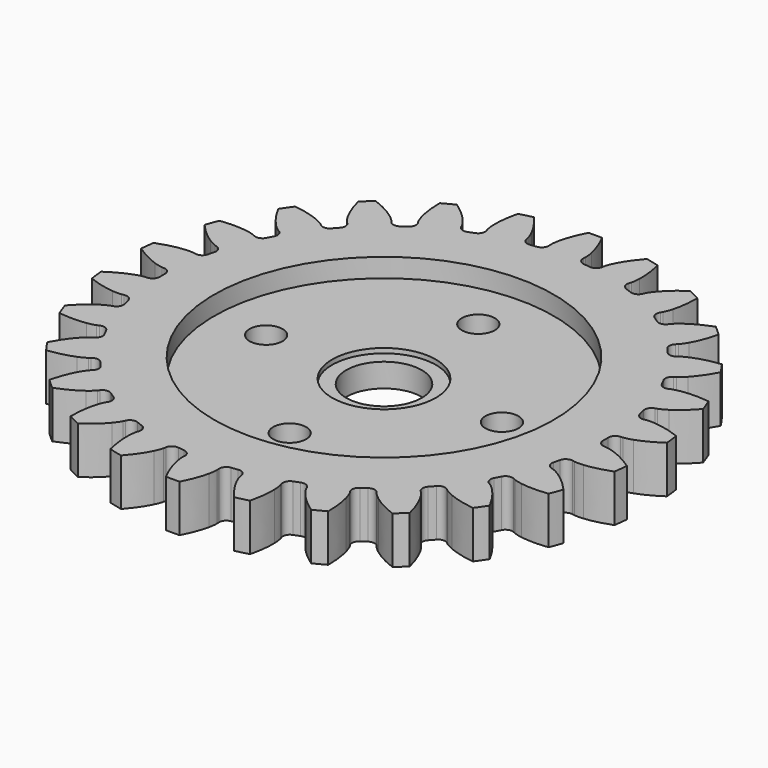
from build123d import *

# Parameters (mm, degrees)
PAD019_DEPTH            = 5
SKETCH036_R             = 18
POCKET010_DEPTH         = 2
SKETCH037_R             = 5.5
POCKET011_DEPTH         = 0.5
SKETCH038_R             = 4
SKETCH038_R_2           = 1.75
POCKET012_DEPTH         = 5
BODY010_PLACEMENT_ANGLE = 90


with BuildPart() as part:
    # InvoluteGear001 → Pad019 (new body)
    with BuildSketch(Plane.XY):
        with BuildLine():
            Line((24.169679, -1.823902), (24.402023, -1.839925))
            add(Edge.make_bspline(
                [(24.402023, -1.839925), (24.505998, -1.841884), (24.819273, -1.836079), (25.341009, -1.726455)],
                knots=[0, 0, 0, 0, 1, 1, 1, 1], degree=3))
            add(Edge.make_bspline(
                [(25.341009, -1.726455), (25.966142, -1.593485), (26.869244, -1.31269), (27.992723, -0.722987)],
                knots=[0, 0, 0, 0, 1, 1, 1, 1], degree=3))
            ThreePointArc((27.992723, -0.722987), (28.002059, 0), (27.992723, 0.722987))
            add(Edge.make_bspline(
                [(27.992723, 0.722987), (26.869244, 1.31269), (25.966142, 1.593485), (25.341009, 1.726455)],
                knots=[0, 0, 0, 0, 1, 1, 1, 1], degree=3))
            add(Edge.make_bspline(
                [(25.341009, 1.726455), (24.819273, 1.836079), (24.505998, 1.841884), (24.402023, 1.839925)],
                knots=[0, 0, 0, 0, 1, 1, 1, 1], degree=3))
            Line((24.402023, 1.839925), (24.169679, 1.823902))
            ThreePointArc((24.169679, 1.823902), (23.633311, 1.995437), (23.367509, 2.49189))
            ThreePointArc((23.367509, 2.49189), (23.328659, 2.832612), (23.28484, 3.172731))
            ThreePointArc((23.28484, 3.172731), (23.424109, 3.718368), (23.90384, 4.013281))
            Line((23.90384, 4.013281), (24.133268, 4.053326))
            add(Edge.make_bspline(
                [(24.133268, 4.053326), (24.23469, 4.076307), (24.537472, 4.156915), (25.017813, 4.388213)],
                knots=[0, 0, 0, 0, 1, 1, 1, 1], degree=3))
            add(Edge.make_bspline(
                [(25.017813, 4.388213), (25.592959, 4.666923), (26.40262, 5.155685), (27.352328, 5.997119)],
                knots=[0, 0, 0, 0, 1, 1, 1, 1], degree=3))
            ThreePointArc((27.352328, 5.997119), (27.18837, 6.701331), (27.006283, 7.401076))
            add(Edge.make_bspline(
                [(27.006283, 7.401076), (25.774325, 7.704777), (24.830267, 7.761286), (24.191477, 7.740788)],
                knots=[0, 0, 0, 0, 1, 1, 1, 1], degree=3))
            add(Edge.make_bspline(
                [(24.191477, 7.740788), (23.658667, 7.722367), (23.353106, 7.653031), (23.252622, 7.626247)],
                knots=[0, 0, 0, 0, 1, 1, 1, 1], degree=3))
            Line((23.252622, 7.626247), (23.030864, 7.555085))
            ThreePointArc((23.030864, 7.555085), (22.46903, 7.593275), (22.092143, 8.011691))
            ThreePointArc((22.092143, 8.011691), (21.972882, 8.333215), (21.848941, 8.652964))
            ThreePointArc((21.848941, 8.652964), (21.853583, 9.216075), (22.248797, 9.617225))
            Line((22.248797, 9.617225), (22.461974, 9.711013))
            add(Edge.make_bspline(
                [(22.461974, 9.711013), (22.55495, 9.757598), (22.829643, 9.908324), (23.240672, 10.247854)],
                knots=[0, 0, 0, 0, 1, 1, 1, 1], degree=3))
            add(Edge.make_bspline(
                [(23.240672, 10.247854), (23.732407, 10.656107), (24.401571, 11.324431), (25.122314, 12.368694)],
                knots=[0, 0, 0, 0, 1, 1, 1, 1], degree=3))
            ThreePointArc((25.122314, 12.368694), (24.794592, 13.013206), (24.450336, 13.64904))
            add(Edge.make_bspline(
                [(24.450336, 13.64904), (23.181496, 13.64909), (22.251348, 13.478029), (21.636025, 13.305254)],
                knots=[0, 0, 0, 0, 1, 1, 1, 1], degree=3))
            add(Edge.make_bspline(
                [(21.636025, 13.305254), (21.123106, 13.159858), (20.843017, 13.019412), (20.751862, 12.969358)],
                knots=[0, 0, 0, 0, 1, 1, 1, 1], degree=3))
            Line((20.751862, 12.969358), (20.553579, 12.847195))
            ThreePointArc((20.553579, 12.847195), (19.998931, 12.749819), (19.532863, 13.065882))
            ThreePointArc((19.532863, 13.065882), (19.340121, 13.349522), (19.143261, 13.630318))
            ThreePointArc((19.143261, 13.630318), (19.013007, 14.178177), (19.300735, 14.662252))
            Line((19.300735, 14.662252), (19.485273, 14.804331))
            add(Edge.make_bspline(
                [(19.485273, 14.804331), (19.564398, 14.871813), (19.795038, 15.083897), (20.112869, 15.511927)],
                knots=[0, 0, 0, 0, 1, 1, 1, 1], degree=3))
            add(Edge.make_bspline(
                [(20.112869, 15.511927), (20.492613, 16.025997), (20.982392, 16.835042), (21.432283, 18.021445)],
                knots=[0, 0, 0, 0, 1, 1, 1, 1], degree=3))
            ThreePointArc((21.432283, 18.021445), (20.959842, 18.5688), (20.473425, 19.103773))
            add(Edge.make_bspline(
                [(20.473425, 19.103773), (19.241443, 18.800167), (18.379261, 18.411478), (17.823166, 18.096467)],
                knots=[0, 0, 0, 0, 1, 1, 1, 1], degree=3))
            add(Edge.make_bspline(
                [(17.823166, 18.096467), (17.359947, 17.832547), (17.121608, 17.629152), (17.04508, 17.558738)],
                knots=[0, 0, 0, 0, 1, 1, 1, 1], degree=3))
            Line((17.04508, 17.558738), (16.881794, 17.392672))
            ThreePointArc((16.881794, 17.392672), (16.366567, 17.16539), (15.838403, 17.360731))
            ThreePointArc((15.838403, 17.360731), (15.583382, 17.590003), (15.325044, 17.815528))
            ThreePointArc((15.325044, 17.815528), (15.067463, 18.316296), (15.230984, 18.855162))
            Line((15.230984, 18.855162), (15.376158, 19.037275))
            add(Edge.make_bspline(
                [(15.376158, 19.037275), (15.436834, 19.121732), (15.610017, 19.382849), (15.816178, 19.874503)],
                knots=[0, 0, 0, 0, 1, 1, 1, 1], degree=3))
            add(Edge.make_bspline(
                [(15.816178, 19.874503), (16.061862, 20.464514), (16.343793, 21.367261), (16.496686, 22.626856)],
                knots=[0, 0, 0, 0, 1, 1, 1, 1], degree=3))
            ThreePointArc((16.496686, 22.626856), (15.906982, 23.045243), (15.306672, 23.448263))
            add(Edge.make_bspline(
                [(15.306672, 23.448263), (14.183147, 22.858647), (13.439038, 22.274919), (12.974489, 21.835979)],
                knots=[0, 0, 0, 0, 1, 1, 1, 1], degree=3))
            add(Edge.make_bspline(
                [(12.974489, 21.835979), (12.587891, 21.468873), (12.405153, 21.21435), (12.3477, 21.127668)],
                knots=[0, 0, 0, 0, 1, 1, 1, 1], degree=3))
            Line((12.3477, 21.127668), (12.228901, 20.92735))
            ThreePointArc((12.228901, 20.92735), (11.783038, 20.583371), (11.223473, 20.646638))
            ThreePointArc((11.223473, 20.646638), (10.920995, 20.808217), (10.616191, 20.965364))
            ThreePointArc((10.616191, 20.965364), (10.246254, 21.389937), (10.276064, 21.952278))
            Line((10.276064, 21.952278), (10.373437, 22.163841))
            add(Edge.make_bspline(
                [(10.373437, 22.163841), (10.412138, 22.260365), (10.517799, 22.555341), (10.600309, 23.082045)],
                knots=[0, 0, 0, 0, 1, 1, 1, 1], degree=3))
            add(Edge.make_bspline(
                [(10.600309, 23.082045), (10.697655, 23.713707), (10.755352, 24.657693), (10.602361, 25.917276)],
                knots=[0, 0, 0, 0, 1, 1, 1, 1], degree=3))
            ThreePointArc((10.602361, 25.917276), (9.929667, 26.18238), (9.250352, 26.430025))
            add(Edge.make_bspline(
                [(9.250352, 26.430025), (8.300578, 25.588666), (7.717787, 24.843822), (7.371782, 24.306464)],
                knots=[0, 0, 0, 0, 1, 1, 1, 1], degree=3))
            add(Edge.make_bspline(
                [(7.371782, 24.306464), (7.084272, 23.857506), (6.967755, 23.566647), (6.932717, 23.468734)],
                knots=[0, 0, 0, 0, 1, 1, 1, 1], degree=3))
            Line((6.932717, 23.468734), (6.865309, 23.245807))
            ThreePointArc((6.865309, 23.245807), (6.514721, 22.805121), (5.956275, 22.732637))
            ThreePointArc((5.956275, 22.732637), (5.623918, 22.817133), (5.290363, 22.89677))
            ThreePointArc((5.290363, 22.89677), (4.829569, 23.220474), (4.723936, 23.773608))
            Line((4.723936, 23.773608), (4.767849, 24.002326))
            add(Edge.make_bspline(
                [(4.767849, 24.002326), (4.782326, 24.105307), (4.814325, 24.416998), (4.768388, 24.948143)],
                knots=[0, 0, 0, 0, 1, 1, 1, 1], degree=3))
            add(Edge.make_bspline(
                [(4.768388, 24.948143), (4.711739, 25.584747), (4.541849, 26.515109), (4.091866, 27.701478)],
                knots=[0, 0, 0, 0, 1, 1, 1, 1], degree=3))
            ThreePointArc((4.091866, 27.701478), (3.375275, 27.797892), (2.656434, 27.875771))
            add(Edge.make_bspline(
                [(2.656434, 27.875771), (1.93561, 26.831564), (1.548006, 25.968893), (1.340654, 25.364345)],
                knots=[0, 0, 0, 0, 1, 1, 1, 1], degree=3))
            add(Edge.make_bspline(
                [(1.340654, 25.364345), (1.168941, 24.859627), (1.125417, 24.549336), (1.114829, 24.445883)],
                knots=[0, 0, 0, 0, 1, 1, 1, 1], degree=3))
            Line((1.114829, 24.445883), (1.10273, 24.213302))
            ThreePointArc((1.10273, 24.213302), (0.867792, 23.70152), (0.342921, 23.497498))
            ThreePointArc((0.342921, 23.497498), (0, 23.5), (-0.342921, 23.497498))
            ThreePointArc((-0.342921, 23.497498), (-0.867792, 23.70152), (-1.10273, 24.213302))
            Line((-1.10273, 24.213302), (-1.114829, 24.445883))
            add(Edge.make_bspline(
                [(-1.114829, 24.445883), (-1.125417, 24.549336), (-1.168941, 24.859627), (-1.340654, 25.364345)],
                knots=[0, 0, 0, 0, 1, 1, 1, 1], degree=3))
            add(Edge.make_bspline(
                [(-1.340654, 25.364345), (-1.548006, 25.968893), (-1.93561, 26.831564), (-2.656434, 27.875771)],
                knots=[0, 0, 0, 0, 1, 1, 1, 1], degree=3))
            ThreePointArc((-2.656434, 27.875771), (-3.375275, 27.797892), (-4.091866, 27.701478))
            add(Edge.make_bspline(
                [(-4.091866, 27.701478), (-4.541849, 26.515109), (-4.711739, 25.584747), (-4.768388, 24.948143)],
                knots=[0, 0, 0, 0, 1, 1, 1, 1], degree=3))
            add(Edge.make_bspline(
                [(-4.768388, 24.948143), (-4.814325, 24.416998), (-4.782326, 24.105307), (-4.767849, 24.002326)],
                knots=[0, 0, 0, 0, 1, 1, 1, 1], degree=3))
            Line((-4.767849, 24.002326), (-4.723936, 23.773608))
            ThreePointArc((-4.723936, 23.773608), (-4.829569, 23.220474), (-5.290363, 22.89677))
            ThreePointArc((-5.290363, 22.89677), (-5.623918, 22.817133), (-5.956275, 22.732637))
            ThreePointArc((-5.956275, 22.732637), (-6.514721, 22.805121), (-6.865309, 23.245807))
            Line((-6.865309, 23.245807), (-6.932717, 23.468734))
            add(Edge.make_bspline(
                [(-6.932717, 23.468734), (-6.967755, 23.566647), (-7.084272, 23.857506), (-7.371782, 24.306464)],
                knots=[0, 0, 0, 0, 1, 1, 1, 1], degree=3))
            add(Edge.make_bspline(
                [(-7.371782, 24.306464), (-7.717787, 24.843822), (-8.300578, 25.588666), (-9.250352, 26.430025)],
                knots=[0, 0, 0, 0, 1, 1, 1, 1], degree=3))
            ThreePointArc((-9.250352, 26.430025), (-9.929667, 26.18238), (-10.602361, 25.917276))
            add(Edge.make_bspline(
                [(-10.602361, 25.917276), (-10.755352, 24.657693), (-10.697655, 23.713707), (-10.600309, 23.082045)],
                knots=[0, 0, 0, 0, 1, 1, 1, 1], degree=3))
            add(Edge.make_bspline(
                [(-10.600309, 23.082045), (-10.517799, 22.555341), (-10.412138, 22.260365), (-10.373437, 22.163841)],
                knots=[0, 0, 0, 0, 1, 1, 1, 1], degree=3))
            Line((-10.373437, 22.163841), (-10.276064, 21.952278))
            ThreePointArc((-10.276064, 21.952278), (-10.246254, 21.389937), (-10.616191, 20.965364))
            ThreePointArc((-10.616191, 20.965364), (-10.920995, 20.808217), (-11.223473, 20.646638))
            ThreePointArc((-11.223473, 20.646638), (-11.783038, 20.583371), (-12.228901, 20.92735))
            Line((-12.228901, 20.92735), (-12.3477, 21.127668))
            add(Edge.make_bspline(
                [(-12.3477, 21.127668), (-12.405153, 21.21435), (-12.587891, 21.468873), (-12.974489, 21.835979)],
                knots=[0, 0, 0, 0, 1, 1, 1, 1], degree=3))
            add(Edge.make_bspline(
                [(-12.974489, 21.835979), (-13.439038, 22.274919), (-14.183147, 22.858647), (-15.306672, 23.448263)],
                knots=[0, 0, 0, 0, 1, 1, 1, 1], degree=3))
            ThreePointArc((-15.306672, 23.448263), (-15.906982, 23.045243), (-16.496686, 22.626856))
            add(Edge.make_bspline(
                [(-16.496686, 22.626856), (-16.343793, 21.367261), (-16.061862, 20.464514), (-15.816178, 19.874503)],
                knots=[0, 0, 0, 0, 1, 1, 1, 1], degree=3))
            add(Edge.make_bspline(
                [(-15.816178, 19.874503), (-15.610017, 19.382849), (-15.436834, 19.121732), (-15.376158, 19.037275)],
                knots=[0, 0, 0, 0, 1, 1, 1, 1], degree=3))
            Line((-15.376158, 19.037275), (-15.230984, 18.855162))
            ThreePointArc((-15.230984, 18.855162), (-15.067463, 18.316296), (-15.325044, 17.815528))
            ThreePointArc((-15.325044, 17.815528), (-15.583382, 17.590003), (-15.838403, 17.360731))
            ThreePointArc((-15.838403, 17.360731), (-16.366567, 17.16539), (-16.881794, 17.392672))
            Line((-16.881794, 17.392672), (-17.04508, 17.558738))
            add(Edge.make_bspline(
                [(-17.04508, 17.558738), (-17.121608, 17.629152), (-17.359947, 17.832547), (-17.823166, 18.096467)],
                knots=[0, 0, 0, 0, 1, 1, 1, 1], degree=3))
            add(Edge.make_bspline(
                [(-17.823166, 18.096467), (-18.379261, 18.411478), (-19.241443, 18.800167), (-20.473425, 19.103773)],
                knots=[0, 0, 0, 0, 1, 1, 1, 1], degree=3))
            ThreePointArc((-20.473425, 19.103773), (-20.959842, 18.5688), (-21.432283, 18.021445))
            add(Edge.make_bspline(
                [(-21.432283, 18.021445), (-20.982392, 16.835042), (-20.492613, 16.025997), (-20.112869, 15.511927)],
                knots=[0, 0, 0, 0, 1, 1, 1, 1], degree=3))
            add(Edge.make_bspline(
                [(-20.112869, 15.511927), (-19.795038, 15.083897), (-19.564398, 14.871813), (-19.485273, 14.804331)],
                knots=[0, 0, 0, 0, 1, 1, 1, 1], degree=3))
            Line((-19.485273, 14.804331), (-19.300735, 14.662252))
            ThreePointArc((-19.300735, 14.662252), (-19.013007, 14.178177), (-19.143261, 13.630318))
            ThreePointArc((-19.143261, 13.630318), (-19.340121, 13.349522), (-19.532863, 13.065882))
            ThreePointArc((-19.532863, 13.065882), (-19.998931, 12.749819), (-20.553579, 12.847195))
            Line((-20.553579, 12.847195), (-20.751862, 12.969358))
            add(Edge.make_bspline(
                [(-20.751862, 12.969358), (-20.843017, 13.019412), (-21.123106, 13.159858), (-21.636025, 13.305254)],
                knots=[0, 0, 0, 0, 1, 1, 1, 1], degree=3))
            add(Edge.make_bspline(
                [(-21.636025, 13.305254), (-22.251348, 13.478029), (-23.181496, 13.64909), (-24.450336, 13.64904)],
                knots=[0, 0, 0, 0, 1, 1, 1, 1], degree=3))
            ThreePointArc((-24.450336, 13.64904), (-24.794592, 13.013206), (-25.122314, 12.368694))
            add(Edge.make_bspline(
                [(-25.122314, 12.368694), (-24.401571, 11.324431), (-23.732407, 10.656107), (-23.240672, 10.247854)],
                knots=[0, 0, 0, 0, 1, 1, 1, 1], degree=3))
            add(Edge.make_bspline(
                [(-23.240672, 10.247854), (-22.829643, 9.908324), (-22.55495, 9.757598), (-22.461974, 9.711013)],
                knots=[0, 0, 0, 0, 1, 1, 1, 1], degree=3))
            Line((-22.461974, 9.711013), (-22.248797, 9.617225))
            ThreePointArc((-22.248797, 9.617225), (-21.853583, 9.216075), (-21.848941, 8.652964))
            ThreePointArc((-21.848941, 8.652964), (-21.972882, 8.333215), (-22.092143, 8.011691))
            ThreePointArc((-22.092143, 8.011691), (-22.46903, 7.593275), (-23.030864, 7.555085))
            Line((-23.030864, 7.555085), (-23.252622, 7.626247))
            add(Edge.make_bspline(
                [(-23.252622, 7.626247), (-23.353106, 7.653031), (-23.658667, 7.722367), (-24.191477, 7.740788)],
                knots=[0, 0, 0, 0, 1, 1, 1, 1], degree=3))
            add(Edge.make_bspline(
                [(-24.191477, 7.740788), (-24.830267, 7.761286), (-25.774325, 7.704777), (-27.006283, 7.401076)],
                knots=[0, 0, 0, 0, 1, 1, 1, 1], degree=3))
            ThreePointArc((-27.006283, 7.401076), (-27.18837, 6.701331), (-27.352328, 5.997119))
            add(Edge.make_bspline(
                [(-27.352328, 5.997119), (-26.40262, 5.155685), (-25.592959, 4.666923), (-25.017813, 4.388213)],
                knots=[0, 0, 0, 0, 1, 1, 1, 1], degree=3))
            add(Edge.make_bspline(
                [(-25.017813, 4.388213), (-24.537472, 4.156915), (-24.23469, 4.076307), (-24.133268, 4.053326)],
                knots=[0, 0, 0, 0, 1, 1, 1, 1], degree=3))
            Line((-24.133268, 4.053326), (-23.90384, 4.013281))
            ThreePointArc((-23.90384, 4.013281), (-23.424109, 3.718368), (-23.28484, 3.172731))
            ThreePointArc((-23.28484, 3.172731), (-23.328659, 2.832612), (-23.367509, 2.49189))
            ThreePointArc((-23.367509, 2.49189), (-23.633311, 1.995437), (-24.169679, 1.823902))
            Line((-24.169679, 1.823902), (-24.402023, 1.839925))
            add(Edge.make_bspline(
                [(-24.402023, 1.839925), (-24.505998, 1.841884), (-24.819273, 1.836079), (-25.341009, 1.726455)],
                knots=[0, 0, 0, 0, 1, 1, 1, 1], degree=3))
            add(Edge.make_bspline(
                [(-25.341009, 1.726455), (-25.966142, 1.593485), (-26.869244, 1.31269), (-27.992723, 0.722987)],
                knots=[0, 0, 0, 0, 1, 1, 1, 1], degree=3))
            ThreePointArc((-27.992723, 0.722987), (-28.002059, 0), (-27.992723, -0.722987))
            add(Edge.make_bspline(
                [(-27.992723, -0.722987), (-26.869244, -1.31269), (-25.966142, -1.593485), (-25.341009, -1.726455)],
                knots=[0, 0, 0, 0, 1, 1, 1, 1], degree=3))
            add(Edge.make_bspline(
                [(-25.341009, -1.726455), (-24.819273, -1.836079), (-24.505998, -1.841884), (-24.402023, -1.839925)],
                knots=[0, 0, 0, 0, 1, 1, 1, 1], degree=3))
            Line((-24.402023, -1.839925), (-24.169679, -1.823902))
            ThreePointArc((-24.169679, -1.823902), (-23.633311, -1.995437), (-23.367509, -2.49189))
            ThreePointArc((-23.367509, -2.49189), (-23.328659, -2.832612), (-23.28484, -3.172731))
            ThreePointArc((-23.28484, -3.172731), (-23.424109, -3.718368), (-23.90384, -4.013281))
            Line((-23.90384, -4.013281), (-24.133268, -4.053326))
            add(Edge.make_bspline(
                [(-24.133268, -4.053326), (-24.23469, -4.076307), (-24.537472, -4.156915), (-25.017813, -4.388213)],
                knots=[0, 0, 0, 0, 1, 1, 1, 1], degree=3))
            add(Edge.make_bspline(
                [(-25.017813, -4.388213), (-25.592959, -4.666923), (-26.40262, -5.155685), (-27.352328, -5.997119)],
                knots=[0, 0, 0, 0, 1, 1, 1, 1], degree=3))
            ThreePointArc((-27.352328, -5.997119), (-27.18837, -6.701331), (-27.006283, -7.401076))
            add(Edge.make_bspline(
                [(-27.006283, -7.401076), (-25.774325, -7.704777), (-24.830267, -7.761286), (-24.191477, -7.740788)],
                knots=[0, 0, 0, 0, 1, 1, 1, 1], degree=3))
            add(Edge.make_bspline(
                [(-24.191477, -7.740788), (-23.658667, -7.722367), (-23.353106, -7.653031), (-23.252622, -7.626247)],
                knots=[0, 0, 0, 0, 1, 1, 1, 1], degree=3))
            Line((-23.252622, -7.626247), (-23.030864, -7.555085))
            ThreePointArc((-23.030864, -7.555085), (-22.46903, -7.593275), (-22.092143, -8.011691))
            ThreePointArc((-22.092143, -8.011691), (-21.972882, -8.333215), (-21.848941, -8.652964))
            ThreePointArc((-21.848941, -8.652964), (-21.853583, -9.216075), (-22.248797, -9.617225))
            Line((-22.248797, -9.617225), (-22.461974, -9.711013))
            add(Edge.make_bspline(
                [(-22.461974, -9.711013), (-22.55495, -9.757598), (-22.829643, -9.908324), (-23.240672, -10.247854)],
                knots=[0, 0, 0, 0, 1, 1, 1, 1], degree=3))
            add(Edge.make_bspline(
                [(-23.240672, -10.247854), (-23.732407, -10.656107), (-24.401571, -11.324431), (-25.122314, -12.368694)],
                knots=[0, 0, 0, 0, 1, 1, 1, 1], degree=3))
            ThreePointArc((-25.122314, -12.368694), (-24.794592, -13.013206), (-24.450336, -13.64904))
            add(Edge.make_bspline(
                [(-24.450336, -13.64904), (-23.181496, -13.64909), (-22.251348, -13.478029), (-21.636025, -13.305254)],
                knots=[0, 0, 0, 0, 1, 1, 1, 1], degree=3))
            add(Edge.make_bspline(
                [(-21.636025, -13.305254), (-21.123106, -13.159858), (-20.843017, -13.019412), (-20.751862, -12.969358)],
                knots=[0, 0, 0, 0, 1, 1, 1, 1], degree=3))
            Line((-20.751862, -12.969358), (-20.553579, -12.847195))
            ThreePointArc((-20.553579, -12.847195), (-19.998931, -12.749819), (-19.532863, -13.065882))
            ThreePointArc((-19.532863, -13.065882), (-19.340121, -13.349522), (-19.143261, -13.630318))
            ThreePointArc((-19.143261, -13.630318), (-19.013007, -14.178177), (-19.300735, -14.662252))
            Line((-19.300735, -14.662252), (-19.485273, -14.804331))
            add(Edge.make_bspline(
                [(-19.485273, -14.804331), (-19.564398, -14.871813), (-19.795038, -15.083897), (-20.112869, -15.511927)],
                knots=[0, 0, 0, 0, 1, 1, 1, 1], degree=3))
            add(Edge.make_bspline(
                [(-20.112869, -15.511927), (-20.492613, -16.025997), (-20.982392, -16.835042), (-21.432283, -18.021445)],
                knots=[0, 0, 0, 0, 1, 1, 1, 1], degree=3))
            ThreePointArc((-21.432283, -18.021445), (-20.959842, -18.5688), (-20.473425, -19.103773))
            add(Edge.make_bspline(
                [(-20.473425, -19.103773), (-19.241443, -18.800167), (-18.379261, -18.411478), (-17.823166, -18.096467)],
                knots=[0, 0, 0, 0, 1, 1, 1, 1], degree=3))
            add(Edge.make_bspline(
                [(-17.823166, -18.096467), (-17.359947, -17.832547), (-17.121608, -17.629152), (-17.04508, -17.558738)],
                knots=[0, 0, 0, 0, 1, 1, 1, 1], degree=3))
            Line((-17.04508, -17.558738), (-16.881794, -17.392672))
            ThreePointArc((-16.881794, -17.392672), (-16.366567, -17.16539), (-15.838403, -17.360731))
            ThreePointArc((-15.838403, -17.360731), (-15.583382, -17.590003), (-15.325044, -17.815528))
            ThreePointArc((-15.325044, -17.815528), (-15.067463, -18.316296), (-15.230984, -18.855162))
            Line((-15.230984, -18.855162), (-15.376158, -19.037275))
            add(Edge.make_bspline(
                [(-15.376158, -19.037275), (-15.436834, -19.121732), (-15.610017, -19.382849), (-15.816178, -19.874503)],
                knots=[0, 0, 0, 0, 1, 1, 1, 1], degree=3))
            add(Edge.make_bspline(
                [(-15.816178, -19.874503), (-16.061862, -20.464514), (-16.343793, -21.367261), (-16.496686, -22.626856)],
                knots=[0, 0, 0, 0, 1, 1, 1, 1], degree=3))
            ThreePointArc((-16.496686, -22.626856), (-15.906982, -23.045243), (-15.306672, -23.448263))
            add(Edge.make_bspline(
                [(-15.306672, -23.448263), (-14.183147, -22.858647), (-13.439038, -22.274919), (-12.974489, -21.835979)],
                knots=[0, 0, 0, 0, 1, 1, 1, 1], degree=3))
            add(Edge.make_bspline(
                [(-12.974489, -21.835979), (-12.587891, -21.468873), (-12.405153, -21.21435), (-12.3477, -21.127668)],
                knots=[0, 0, 0, 0, 1, 1, 1, 1], degree=3))
            Line((-12.3477, -21.127668), (-12.228901, -20.92735))
            ThreePointArc((-12.228901, -20.92735), (-11.783038, -20.583371), (-11.223473, -20.646638))
            ThreePointArc((-11.223473, -20.646638), (-10.920995, -20.808217), (-10.616191, -20.965364))
            ThreePointArc((-10.616191, -20.965364), (-10.246254, -21.389937), (-10.276064, -21.952278))
            Line((-10.276064, -21.952278), (-10.373437, -22.163841))
            add(Edge.make_bspline(
                [(-10.373437, -22.163841), (-10.412138, -22.260365), (-10.517799, -22.555341), (-10.600309, -23.082045)],
                knots=[0, 0, 0, 0, 1, 1, 1, 1], degree=3))
            add(Edge.make_bspline(
                [(-10.600309, -23.082045), (-10.697655, -23.713707), (-10.755352, -24.657693), (-10.602361, -25.917276)],
                knots=[0, 0, 0, 0, 1, 1, 1, 1], degree=3))
            ThreePointArc((-10.602361, -25.917276), (-9.929667, -26.18238), (-9.250352, -26.430025))
            add(Edge.make_bspline(
                [(-9.250352, -26.430025), (-8.300578, -25.588666), (-7.717787, -24.843822), (-7.371782, -24.306464)],
                knots=[0, 0, 0, 0, 1, 1, 1, 1], degree=3))
            add(Edge.make_bspline(
                [(-7.371782, -24.306464), (-7.084272, -23.857506), (-6.967755, -23.566647), (-6.932717, -23.468734)],
                knots=[0, 0, 0, 0, 1, 1, 1, 1], degree=3))
            Line((-6.932717, -23.468734), (-6.865309, -23.245807))
            ThreePointArc((-6.865309, -23.245807), (-6.514721, -22.805121), (-5.956275, -22.732637))
            ThreePointArc((-5.956275, -22.732637), (-5.623918, -22.817133), (-5.290363, -22.89677))
            ThreePointArc((-5.290363, -22.89677), (-4.829569, -23.220474), (-4.723936, -23.773608))
            Line((-4.723936, -23.773608), (-4.767849, -24.002326))
            add(Edge.make_bspline(
                [(-4.767849, -24.002326), (-4.782326, -24.105307), (-4.814325, -24.416998), (-4.768388, -24.948143)],
                knots=[0, 0, 0, 0, 1, 1, 1, 1], degree=3))
            add(Edge.make_bspline(
                [(-4.768388, -24.948143), (-4.711739, -25.584747), (-4.541849, -26.515109), (-4.091866, -27.701478)],
                knots=[0, 0, 0, 0, 1, 1, 1, 1], degree=3))
            ThreePointArc((-4.091866, -27.701478), (-3.375275, -27.797892), (-2.656434, -27.875771))
            add(Edge.make_bspline(
                [(-2.656434, -27.875771), (-1.93561, -26.831564), (-1.548006, -25.968893), (-1.340654, -25.364345)],
                knots=[0, 0, 0, 0, 1, 1, 1, 1], degree=3))
            add(Edge.make_bspline(
                [(-1.340654, -25.364345), (-1.168941, -24.859627), (-1.125417, -24.549336), (-1.114829, -24.445883)],
                knots=[0, 0, 0, 0, 1, 1, 1, 1], degree=3))
            Line((-1.114829, -24.445883), (-1.10273, -24.213302))
            ThreePointArc((-1.10273, -24.213302), (-0.867792, -23.70152), (-0.342921, -23.497498))
            ThreePointArc((-0.342921, -23.497498), (0, -23.5), (0.342921, -23.497498))
            ThreePointArc((0.342921, -23.497498), (0.867792, -23.70152), (1.10273, -24.213302))
            Line((1.10273, -24.213302), (1.114829, -24.445883))
            add(Edge.make_bspline(
                [(1.114829, -24.445883), (1.125417, -24.549336), (1.168941, -24.859627), (1.340654, -25.364345)],
                knots=[0, 0, 0, 0, 1, 1, 1, 1], degree=3))
            add(Edge.make_bspline(
                [(1.340654, -25.364345), (1.548006, -25.968893), (1.93561, -26.831564), (2.656434, -27.875771)],
                knots=[0, 0, 0, 0, 1, 1, 1, 1], degree=3))
            ThreePointArc((2.656434, -27.875771), (3.375275, -27.797892), (4.091866, -27.701478))
            add(Edge.make_bspline(
                [(4.091866, -27.701478), (4.541849, -26.515109), (4.711739, -25.584747), (4.768388, -24.948143)],
                knots=[0, 0, 0, 0, 1, 1, 1, 1], degree=3))
            add(Edge.make_bspline(
                [(4.768388, -24.948143), (4.814325, -24.416998), (4.782326, -24.105307), (4.767849, -24.002326)],
                knots=[0, 0, 0, 0, 1, 1, 1, 1], degree=3))
            Line((4.767849, -24.002326), (4.723936, -23.773608))
            ThreePointArc((4.723936, -23.773608), (4.829569, -23.220474), (5.290363, -22.89677))
            ThreePointArc((5.290363, -22.89677), (5.623918, -22.817133), (5.956275, -22.732637))
            ThreePointArc((5.956275, -22.732637), (6.514721, -22.805121), (6.865309, -23.245807))
            Line((6.865309, -23.245807), (6.932717, -23.468734))
            add(Edge.make_bspline(
                [(6.932717, -23.468734), (6.967755, -23.566647), (7.084272, -23.857506), (7.371782, -24.306464)],
                knots=[0, 0, 0, 0, 1, 1, 1, 1], degree=3))
            add(Edge.make_bspline(
                [(7.371782, -24.306464), (7.717787, -24.843822), (8.300578, -25.588666), (9.250352, -26.430025)],
                knots=[0, 0, 0, 0, 1, 1, 1, 1], degree=3))
            ThreePointArc((9.250352, -26.430025), (9.929667, -26.18238), (10.602361, -25.917276))
            add(Edge.make_bspline(
                [(10.602361, -25.917276), (10.755352, -24.657693), (10.697655, -23.713707), (10.600309, -23.082045)],
                knots=[0, 0, 0, 0, 1, 1, 1, 1], degree=3))
            add(Edge.make_bspline(
                [(10.600309, -23.082045), (10.517799, -22.555341), (10.412138, -22.260365), (10.373437, -22.163841)],
                knots=[0, 0, 0, 0, 1, 1, 1, 1], degree=3))
            Line((10.373437, -22.163841), (10.276064, -21.952278))
            ThreePointArc((10.276064, -21.952278), (10.246254, -21.389937), (10.616191, -20.965364))
            ThreePointArc((10.616191, -20.965364), (10.920995, -20.808217), (11.223473, -20.646638))
            ThreePointArc((11.223473, -20.646638), (11.783038, -20.583371), (12.228901, -20.92735))
            Line((12.228901, -20.92735), (12.3477, -21.127668))
            add(Edge.make_bspline(
                [(12.3477, -21.127668), (12.405153, -21.21435), (12.587891, -21.468873), (12.974489, -21.835979)],
                knots=[0, 0, 0, 0, 1, 1, 1, 1], degree=3))
            add(Edge.make_bspline(
                [(12.974489, -21.835979), (13.439038, -22.274919), (14.183147, -22.858647), (15.306672, -23.448263)],
                knots=[0, 0, 0, 0, 1, 1, 1, 1], degree=3))
            ThreePointArc((15.306672, -23.448263), (15.906982, -23.045243), (16.496686, -22.626856))
            add(Edge.make_bspline(
                [(16.496686, -22.626856), (16.343793, -21.367261), (16.061862, -20.464514), (15.816178, -19.874503)],
                knots=[0, 0, 0, 0, 1, 1, 1, 1], degree=3))
            add(Edge.make_bspline(
                [(15.816178, -19.874503), (15.610017, -19.382849), (15.436834, -19.121732), (15.376158, -19.037275)],
                knots=[0, 0, 0, 0, 1, 1, 1, 1], degree=3))
            Line((15.376158, -19.037275), (15.230984, -18.855162))
            ThreePointArc((15.230984, -18.855162), (15.067463, -18.316296), (15.325044, -17.815528))
            ThreePointArc((15.325044, -17.815528), (15.583382, -17.590003), (15.838403, -17.360731))
            ThreePointArc((15.838403, -17.360731), (16.366567, -17.16539), (16.881794, -17.392672))
            Line((16.881794, -17.392672), (17.04508, -17.558738))
            add(Edge.make_bspline(
                [(17.04508, -17.558738), (17.121608, -17.629152), (17.359947, -17.832547), (17.823166, -18.096467)],
                knots=[0, 0, 0, 0, 1, 1, 1, 1], degree=3))
            add(Edge.make_bspline(
                [(17.823166, -18.096467), (18.379261, -18.411478), (19.241443, -18.800167), (20.473425, -19.103773)],
                knots=[0, 0, 0, 0, 1, 1, 1, 1], degree=3))
            ThreePointArc((20.473425, -19.103773), (20.959842, -18.5688), (21.432283, -18.021445))
            add(Edge.make_bspline(
                [(21.432283, -18.021445), (20.982392, -16.835042), (20.492613, -16.025997), (20.112869, -15.511927)],
                knots=[0, 0, 0, 0, 1, 1, 1, 1], degree=3))
            add(Edge.make_bspline(
                [(20.112869, -15.511927), (19.795038, -15.083897), (19.564398, -14.871813), (19.485273, -14.804331)],
                knots=[0, 0, 0, 0, 1, 1, 1, 1], degree=3))
            Line((19.485273, -14.804331), (19.300735, -14.662252))
            ThreePointArc((19.300735, -14.662252), (19.013007, -14.178177), (19.143261, -13.630318))
            ThreePointArc((19.143261, -13.630318), (19.340121, -13.349522), (19.532863, -13.065882))
            ThreePointArc((19.532863, -13.065882), (19.998931, -12.749819), (20.553579, -12.847195))
            Line((20.553579, -12.847195), (20.751862, -12.969358))
            add(Edge.make_bspline(
                [(20.751862, -12.969358), (20.843017, -13.019412), (21.123106, -13.159858), (21.636025, -13.305254)],
                knots=[0, 0, 0, 0, 1, 1, 1, 1], degree=3))
            add(Edge.make_bspline(
                [(21.636025, -13.305254), (22.251348, -13.478029), (23.181496, -13.64909), (24.450336, -13.64904)],
                knots=[0, 0, 0, 0, 1, 1, 1, 1], degree=3))
            ThreePointArc((24.450336, -13.64904), (24.794592, -13.013206), (25.122314, -12.368694))
            add(Edge.make_bspline(
                [(25.122314, -12.368694), (24.401571, -11.324431), (23.732407, -10.656107), (23.240672, -10.247854)],
                knots=[0, 0, 0, 0, 1, 1, 1, 1], degree=3))
            add(Edge.make_bspline(
                [(23.240672, -10.247854), (22.829643, -9.908324), (22.55495, -9.757598), (22.461974, -9.711013)],
                knots=[0, 0, 0, 0, 1, 1, 1, 1], degree=3))
            Line((22.461974, -9.711013), (22.248797, -9.617225))
            ThreePointArc((22.248797, -9.617225), (21.853583, -9.216075), (21.848941, -8.652964))
            ThreePointArc((21.848941, -8.652964), (21.972882, -8.333215), (22.092143, -8.011691))
            ThreePointArc((22.092143, -8.011691), (22.46903, -7.593275), (23.030864, -7.555085))
            Line((23.030864, -7.555085), (23.252622, -7.626247))
            add(Edge.make_bspline(
                [(23.252622, -7.626247), (23.353106, -7.653031), (23.658667, -7.722367), (24.191477, -7.740788)],
                knots=[0, 0, 0, 0, 1, 1, 1, 1], degree=3))
            add(Edge.make_bspline(
                [(24.191477, -7.740788), (24.830267, -7.761286), (25.774325, -7.704777), (27.006283, -7.401076)],
                knots=[0, 0, 0, 0, 1, 1, 1, 1], degree=3))
            ThreePointArc((27.006283, -7.401076), (27.18837, -6.701331), (27.352328, -5.997119))
            add(Edge.make_bspline(
                [(27.352328, -5.997119), (26.40262, -5.155685), (25.592959, -4.666923), (25.017813, -4.388213)],
                knots=[0, 0, 0, 0, 1, 1, 1, 1], degree=3))
            add(Edge.make_bspline(
                [(25.017813, -4.388213), (24.537472, -4.156915), (24.23469, -4.076307), (24.133268, -4.053326)],
                knots=[0, 0, 0, 0, 1, 1, 1, 1], degree=3))
            Line((24.133268, -4.053326), (23.90384, -4.013281))
            ThreePointArc((23.90384, -4.013281), (23.424109, -3.718368), (23.28484, -3.172731))
            ThreePointArc((23.28484, -3.172731), (23.328659, -2.832612), (23.367509, -2.49189))
            ThreePointArc((23.367509, -2.49189), (23.633311, -1.995437), (24.169679, -1.823902))
        make_face()
    extrude(amount=PAD019_DEPTH)

    # Sketch036 (on Face262 of Pad019) → Pocket010 (cut)
    with BuildSketch(Plane.XY.offset(5)):
        Circle(SKETCH036_R)
    extrude(amount=-POCKET010_DEPTH, mode=Mode.SUBTRACT)

    # Sketch037 (on Face264 of Pocket010) → Pocket011 (cut)
    with BuildSketch(Plane.XY.offset(3)):
        Circle(SKETCH037_R)
    extrude(amount=-POCKET011_DEPTH, mode=Mode.SUBTRACT)

    # Sketch038 (on Face4 of Pocket011) → Pocket012 (cut)
    with BuildSketch(Plane(origin=(0, 0, 0), x_dir=(1, 0, 0), z_dir=(0, 0, -1))):
        Circle(SKETCH038_R)
        with Locations((12.5, 0)):
            Circle(SKETCH038_R_2)
        with Locations((0, -12.5)):
            Circle(SKETCH038_R_2)
        with Locations((-12.5, 0)):
            Circle(SKETCH038_R_2)
        with Locations((0, 12.5)):
            Circle(SKETCH038_R_2)
    extrude(amount=-POCKET012_DEPTH, mode=Mode.SUBTRACT)


with BuildPart() as part_1:
    # Body010 placement: moved
    add(part.part.moved(Location((-48, 0, 68))).rotate(Axis((-48, 0, 68), (0, 0, -1)), BODY010_PLACEMENT_ANGLE))


with BuildPart() as part_2:
    # Body048 placement: moved
    add(part_1.part.moved(Location((96, 0, 0))))


solid = part_2.part
